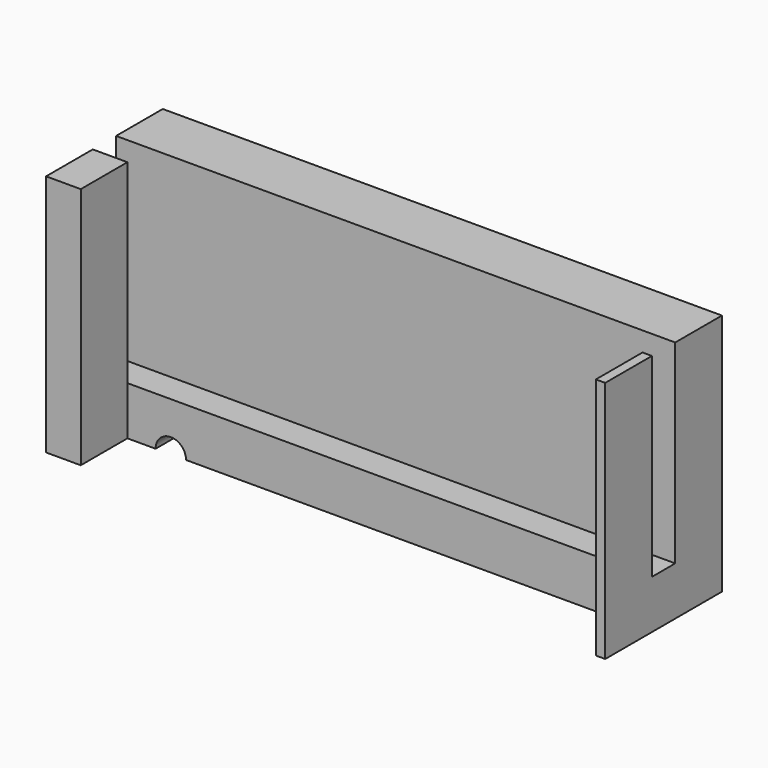
from build123d import *

# Parameters (mm, degrees)
F0_W       = 146.05
F0_H       = 25.4
F1_DEPTH   = 38.1
F2_W       = 7.62
F2_H       = 12.7
F1_FACE1_W = 38.1
F1_FACE1_H = 25.4
F3_DEPTH   = 146.051
F5_DEPTH   = 25.401
F6_W       = 146.05
F6_H       = 15.24
F7_DEPTH   = 38.1
F8_W       = 9.0582419944
F8_H       = 15.24
F9_DEPTH   = 38.1
F10_W      = 2.4497217488
F10_H      = 15.24
F11_DEPTH  = 38.1
F12_R      = 3.96875
F13_DEPTH  = 38.101


with BuildPart() as f1:
    # F0 (on Front) → F1 (new body)
    with BuildSketch(Plane.XZ):
        with Locations((-17.8064775685, -20.8892399079)):
            Rectangle(F0_W, F0_H)
    extrude(amount=F1_DEPTH)

    # F2 (on face) + F1_face1 (on face) → F3 (cut, through all)
    with BuildSketch(Plane(origin=(-90.8314775685, 0, 0), x_dir=(0, -1, 0), z_dir=(-1, 0, 0))):
        with Locations((19.05, -14.5392399079)):
            Rectangle(F2_W, F2_H)
    with BuildSketch(Plane(origin=(55.2185224315, -19.05, -20.8892399079), x_dir=(0, 1, 0), z_dir=(1, 0, 0))):
        Rectangle(F1_FACE1_W, F1_FACE1_H)
    extrude(amount=-F3_DEPTH, dir=(-1, 0, 0), mode=Mode.SUBTRACT)

    # F4 (on face) → F5 (cut, through all)
    with BuildSketch(Plane.XY.offset(-8.1892399079)):
        Polygon((52.7688006827, -22.86), (-81.7732355741, -22.86), (-81.7732355741, -38.1), (52.7688006827, -38.1), (52.7688006827, -30.48), align=None)
    extrude(amount=-F5_DEPTH, mode=Mode.SUBTRACT)

    # F6 (on face) → F7 (join)
    with BuildSketch(Plane.XY.offset(-8.1892399079)):
        with Locations((-17.8064775685, -7.62)):
            Rectangle(F6_W, F6_H)
    extrude(amount=F7_DEPTH)

    # F8 (on face) → F9 (join)
    with BuildSketch(Plane.XY.offset(-8.1892399079)):
        with Locations((-86.3023565713, -30.48)):
            Rectangle(F8_W, F8_H)
    extrude(amount=F9_DEPTH)

    # F10 (on face) → F11 (join)
    with BuildSketch(Plane.XY.offset(-8.1892399079)):
        with Locations((53.9936615571, -30.48)):
            Rectangle(F10_W, F10_H)
    extrude(amount=F11_DEPTH)

    # F12 (on face) → F13 (cut, through all)
    with BuildSketch(Plane(origin=(0, 0, 0), x_dir=(-1, 0, 0), z_dir=(0, 1, 0))):
        with Locations((-44.652171433, -33.5892399079)):
            Circle(F12_R)
        with BuildLine():
            ThreePointArc((66.466478567, -33.5892399079), (70.441578567, -37.5643399079), (74.416678567, -33.5892399079))
            ThreePointArc((74.416678567, -33.5892399079), (70.441578567, -29.6141399079), (66.466478567, -33.5892399079))
        make_face()
    extrude(amount=-F13_DEPTH, mode=Mode.SUBTRACT)


solid = f1.part
